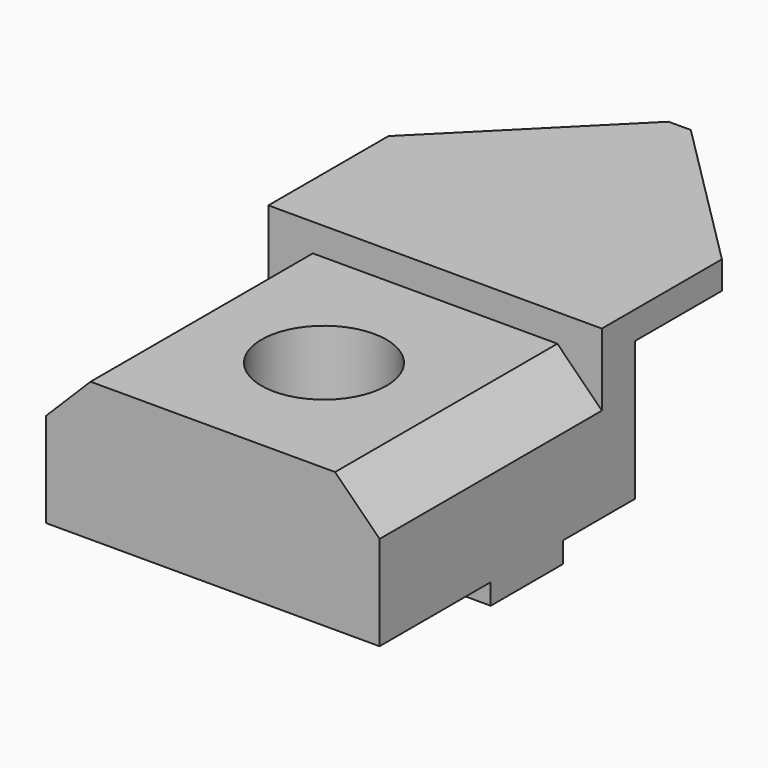
from build123d import *

# Parameters (mm, degrees)
F0_W      = 76.2
F0_H      = 31.75
F0_H_2    = 4.7625
F1_DEPTH  = 133.35
F2_SIZE   = 10.16
F0_H_3    = 6.35
F3_DEPTH  = 9.525
F4_DEPTH  = 69.85
F6_DEPTH  = 51.308
F7_SIZE2  = 35.56
F7_SIZE   = 35.56
F8_R      = 14.2875
F9_DEPTH  = 39.116
F10_DEPTH = 9.525
F11_W     = 20.6375
F11_H     = 4.7625
F11_W_2   = 31.75
F12_DEPTH = 84.836


with BuildPart() as f1:
    # F0 (on Front) → F1 (new body)
    with BuildSketch(Plane.XZ):
        with Locations((-18.9479482412, -5.8624097556)):
            Rectangle(F0_W, F0_H)
        with Locations((-18.9479482412, -24.1186597556)):
            Rectangle(F0_W, F0_H_2)
    extrude(amount=F1_DEPTH)

    # F2
    f2_edges = [f1.edges().sort_by_distance(p)[0] for p in [
        (19.152052, -66.675, 10.01259),
        (-57.047948, -66.675, 10.01259),
    ]]
    chamfer(f2_edges, length=F2_SIZE)

    # F0 (on Front) → F3 (join)
    with BuildSketch(Plane.XZ):
        with Locations((-18.9479482412, -5.8624097556)):
            Rectangle(F0_W, F0_H)
        with Locations((-18.9479482412, 13.1875902444)):
            Rectangle(F0_W, F0_H_3)
    extrude(amount=-F3_DEPTH)

    # F0 (on Front) → F4 (join)
    with BuildSketch(Plane.XZ):
        with Locations((-18.9479482412, 13.1875902444)):
            Rectangle(F0_W, F0_H_3)
    extrude(amount=-F4_DEPTH)

    # F5 (on face) → F6 (cut)
    with BuildSketch(Plane.XY.offset(10.0125902444)):
        Polygon((8.9920517588, -63.5), (-46.8879482412, -63.5), (-73.6699253321, -63.5), (-73.6699253321, -133.35), (35.7825346291, -133.35), (35.7825346291, -63.5), align=None)
    extrude(amount=-F6_DEPTH, mode=Mode.SUBTRACT)

    # F7
    f7_edges = [f1.edges().sort_by_distance(p)[0] for p in [
        (-57.047948, 69.85, 13.18759),
        (19.152052, 69.85, 13.18759),
    ]]
    chamfer(f7_edges, length=F7_SIZE, length2=F7_SIZE2)

    # F8 (on face) → F9 (cut)
    with BuildSketch(Plane.XY.offset(10.0125902444)):
        with Locations((-18.9479482412, -31.75)):
            Circle(F8_R)
    extrude(amount=-F9_DEPTH, mode=Mode.SUBTRACT)

    # F10 (add): a face of the model
    f10_faces = [f1.faces().sort_by_distance(p)[0] for p in [
        (-18.9479482412, 0, -24.1186597556),
    ]]
    extrude(f10_faces, amount=F10_DEPTH)

    # F11 (on face) → F12 (cut)
    with BuildSketch(Plane(origin=(-57.0479482412, 0, 0), x_dir=(0, -1, 0), z_dir=(-1, 0, 0))):
        with Locations((0.79375, -24.1186597556)):
            Rectangle(F11_W, F11_H)
        with Locations((47.625, -24.1186597556)):
            Rectangle(F11_W_2, F11_H)
    extrude(amount=-F12_DEPTH, mode=Mode.SUBTRACT)


solid = f1.part
